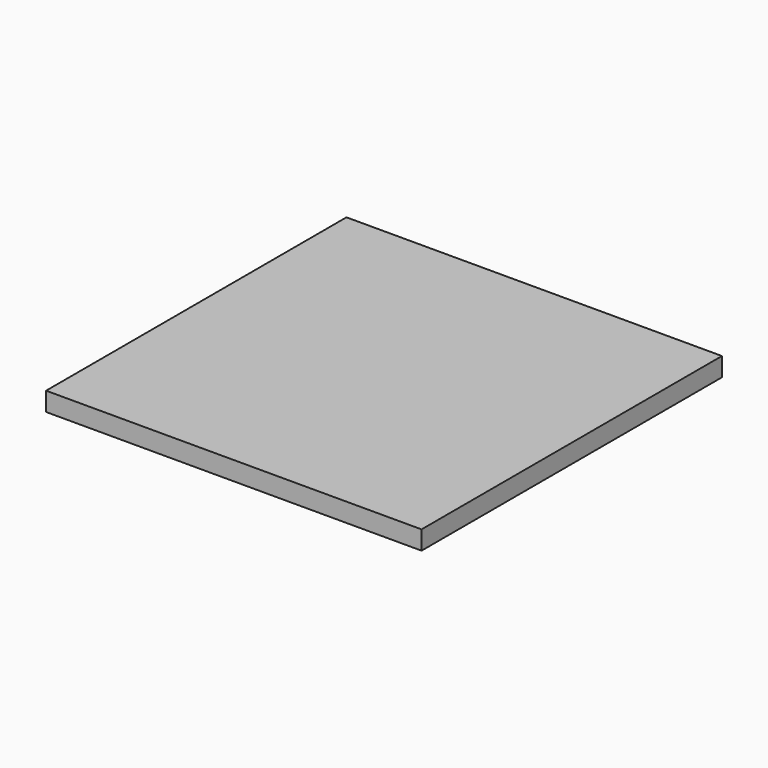
from build123d import *

# Parameters (mm, degrees)
SKETCH_W  = 200
SKETCH_H  = 200
PAD_DEPTH = 10


with BuildPart() as part:
    # Sketch → Pad (new body)
    with BuildSketch(Plane.XY):
        with Locations((100, 100)):
            Rectangle(SKETCH_W, SKETCH_H)
    extrude(amount=PAD_DEPTH)


solid = part.part
